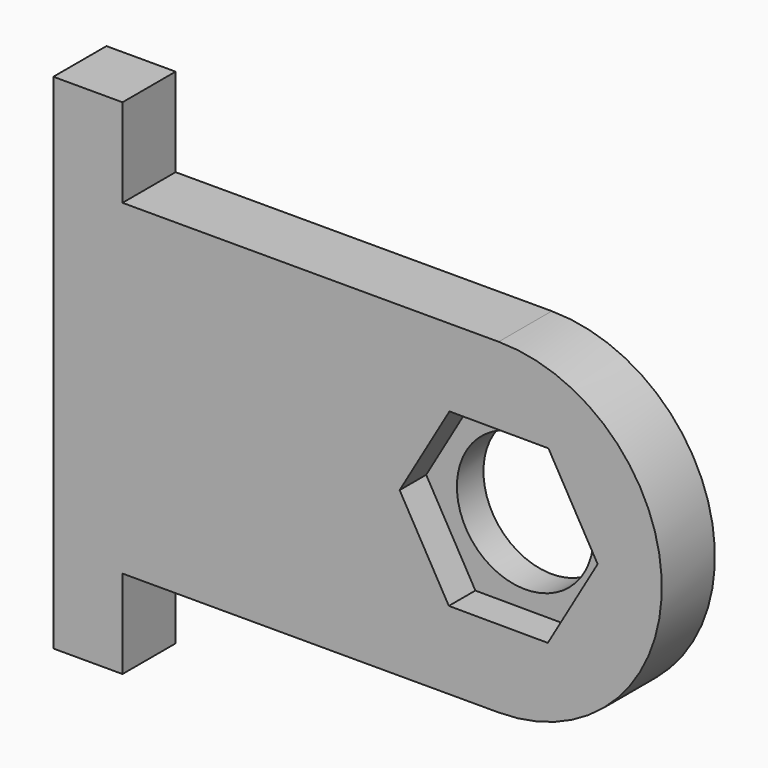
from build123d import *

# Parameters (mm, degrees)
F0_R     = 3.1369
F1_DEPTH = 3.048
F3_DEPTH = 1.524


with BuildPart() as f1:
    # F0 (on Front) → F1 (new body)
    with BuildSketch(Plane.XZ):
        with BuildLine():
            Line((-9.53489, 0.590851), (-12.70989, 0.590851))
            Line((-12.70989, 0.590851), (-12.70989, -22.523149))
            Line((-12.70989, -22.523149), (-9.53489, -22.523149))
            Line((-9.53489, -22.523149), (-9.53489, -18.459149))
            Line((-9.53489, -18.459149), (7.73711, -18.459149))
            ThreePointArc((7.73711, -18.459149), (15.23011, -10.966149), (7.73711, -3.473149))
            Line((7.73711, -3.473149), (-9.53489, -3.473149))
            Line((-9.53489, -3.473149), (-9.53489, 0.590851))
        make_face()
        with Locations((7.73711, -10.966149)):
            Circle(F0_R, mode=Mode.SUBTRACT)
    extrude(amount=F1_DEPTH)

    # F2 (on face) → F3 (cut)
    with BuildSketch(Plane.XZ.offset(3.048)):
        Polygon((5.478697, -7.020747), (3.191085, -10.949291), (5.449498, -14.894693), (9.995523, -14.911551), (12.283135, -10.983007), (10.024722, -7.037605), align=None)
    extrude(amount=-F3_DEPTH, mode=Mode.SUBTRACT)


solid = f1.part
